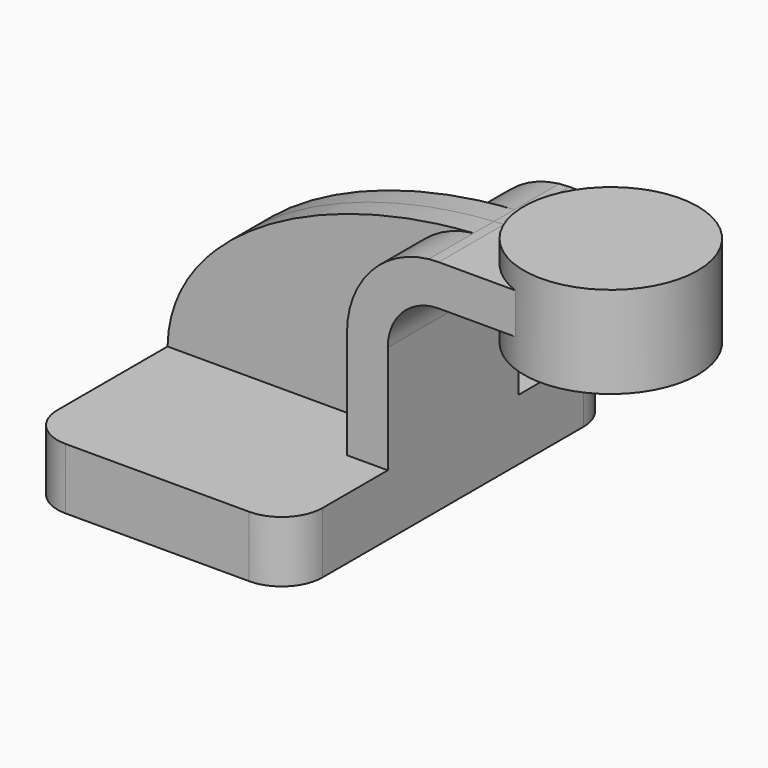
from build123d import *

# Parameters (mm, degrees)
F1_DEPTH = 63.5
F0_W     = 23.7304499335
F0_H     = 12.7
F2_DEPTH = 25.4
F3_DEPTH = 7.9375
F5_R     = 12.7


with BuildPart() as f1:
    # F0 (on Front) → F1 (new body, symmetric)
    with BuildSketch(Plane.XZ):
        Polygon((-41.275, 9.525), (-41.275, -9.525), (41.275, -9.525), (41.275, 9.525), (28.575, 9.525), align=None)
    extrude(amount=F1_DEPTH, both=True)

    # F0 (on Front) → F2 (join, symmetric)
    with BuildSketch(Plane.XZ):
        with Locations((78.5402297496, 65.405)):
            Rectangle(F0_W, F0_H)
        with BuildLine():
            Line((28.575, 9.525), (41.275, 9.525))
            Line((41.275, 9.525), (41.275, 43.18))
            ThreePointArc((41.275, 43.18), (45.9246798487, 54.4053201513), (57.15, 59.055))
            Line((57.15, 59.055), (66.6750047829, 59.055))
            Line((66.6750047829, 59.055), (66.6750047829, 71.755))
            Line((66.6750047829, 71.755), (57.15, 71.755))
            add(Edge.make_bspline(
                [(54.0360283446, 71.5848201108), (55.0724105274, 71.6513974169), (56.1105274713, 71.7081679444), (57.15, 71.755)],
                knots=[114.0538531796, 114.0538531796, 114.0538531796, 114.0538531796, 116.4476428486, 116.4476428486, 116.4476428486, 116.4476428486], degree=3))
            ThreePointArc((54.0360283446, 71.5848201108), (35.8719318892, 62.2528718989), (28.575, 43.18))
            Line((28.575, 43.18), (28.575, 9.525))
        make_face()
    extrude(amount=F2_DEPTH, both=True)

    # F0 (on Front) → F3 (join, symmetric)
    with BuildSketch(Plane.XZ):
        with BuildLine():
            add(Edge.make_bspline(
                [(-41.275, 9.525), (-40.7842322423, 42.9780517277), (4.6568440166, 68.4126958455), (54.0360283446, 71.5848201108)],
                knots=[0, 0, 0, 0, 114.0538531796, 114.0538531796, 114.0538531796, 114.0538531796], degree=3))
            Line((-41.275, 9.525), (28.575, 9.525))
            Line((28.575, 9.525), (28.575, 43.18))
            ThreePointArc((28.575, 43.18), (35.8719318892, 62.2528718989), (54.0360283446, 71.5848201108))
        make_face()
    extrude(amount=F3_DEPTH, both=True)

    # F0 (on Front) → F4 (revolve)
    with BuildSketch(Plane.XZ):
        Polygon((90.4054547164, 78.74), (90.4054547164, 71.755), (90.4054547164, 59.055), (90.4054547164, 50.165), (117.4750047829, 50.165), (117.4750047829, 78.74), align=None)
    revolve(axis=Axis((90.4054547164, 0, 68.8975), (0, 0, -1)))

    # F5
    f5_edges = [f1.edges().sort_by_distance(p)[0] for p in [
        (41.275, -63.5, 0),
        (-41.275, -63.5, 0),
        (-41.275, 63.5, 0),
        (41.275, 63.5, 0),
    ]]
    fillet(f5_edges, radius=F5_R)


solid = f1.part
